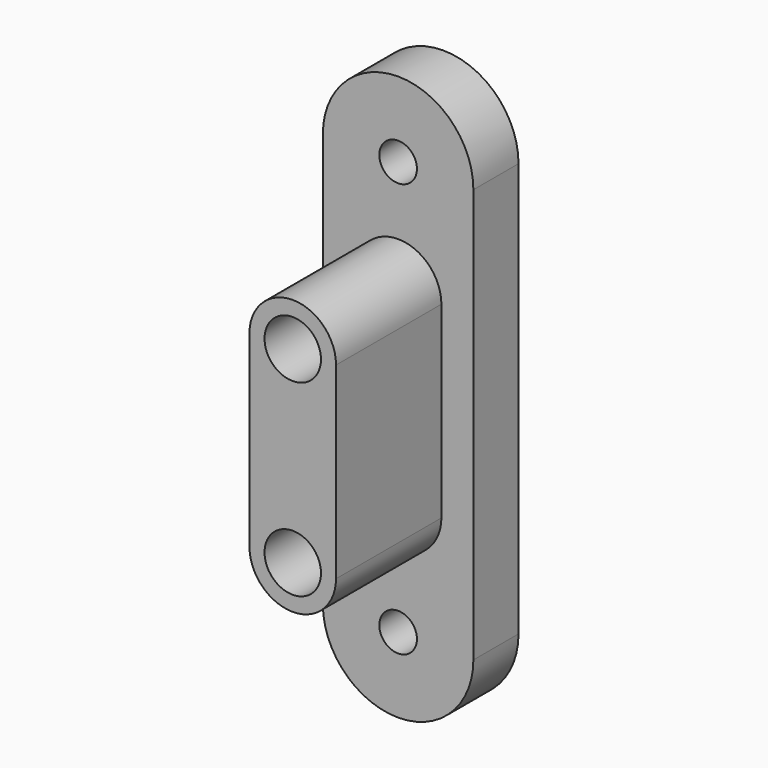
from build123d import *

# Parameters (mm, degrees)
F0_R     = 7.5
F1_DEPTH = 50
F2_R     = 5
F3_DEPTH = 15


with BuildPart() as f1:
    # F0 (on Front) → F1 (new body)
    with BuildSketch(Plane.XZ):
        with BuildLine():
            Line((11.5, -23.765432), (11.5, 26.234568))
            ThreePointArc((11.5, 26.234568), (0, 37.734568), (-11.5, 26.234568))
            Line((-11.5, 26.234568), (-11.5, -23.765432))
            ThreePointArc((-11.5, -23.765432), (0, -35.265432), (11.5, -23.765432))
        make_face()
        with Locations((0, -23.765432)):
            Circle(F0_R, mode=Mode.SUBTRACT)
        with Locations((0, 26.234568)):
            Circle(F0_R, mode=Mode.SUBTRACT)
    extrude(amount=F1_DEPTH)

    # F2 (on Front) → F3 (join)
    with BuildSketch(Plane.XZ):
        with BuildLine():
            Line((-20, 55.77747), (-20, -54.22253))
            ThreePointArc((-20, -54.22253), (0, -74.22253), (20, -54.22253))
            Line((20, -54.22253), (20, 55.77747))
            ThreePointArc((20, 55.77747), (0, 75.77747), (-20, 55.77747))
        make_face()
        with Locations((0, -54.22253)):
            Circle(F2_R, mode=Mode.SUBTRACT)
        with Locations((0, 55.77747)):
            Circle(F2_R, mode=Mode.SUBTRACT)
    extrude(amount=F3_DEPTH)


solid = f1.part
